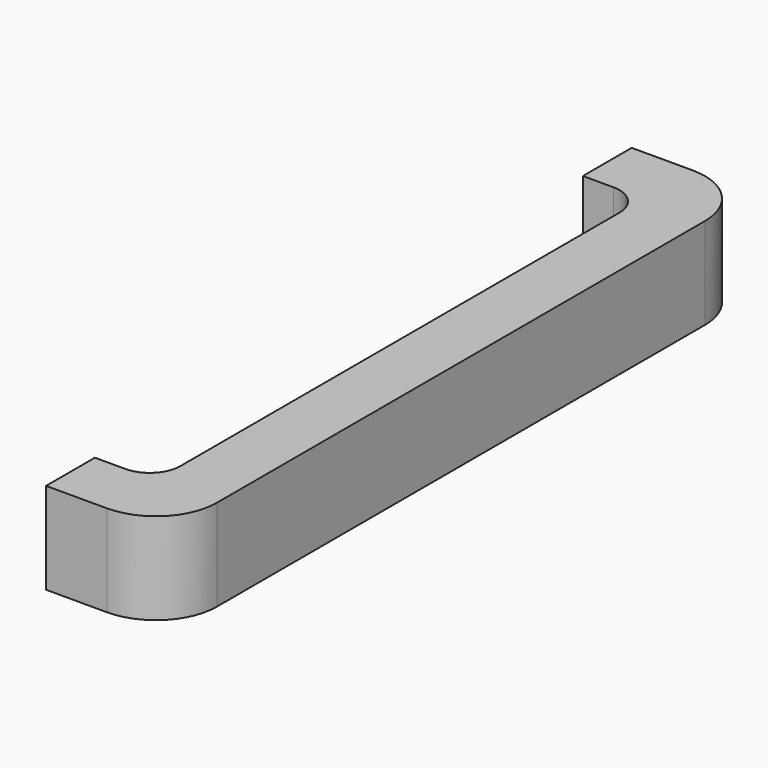
from build123d import *

# Parameters (mm, degrees)
F1_DEPTH = 1.5
F2_R     = 2
F3_R     = 1


with BuildPart() as f1:
    # F0 (on Top) → F1 (new body, symmetric)
    with BuildSketch(Plane.XY):
        Polygon((4, 12), (0, 12), (0, 10), (2, 10), (2, -10), (0, -10), (0, -12), (4, -12), align=None)
    extrude(amount=F1_DEPTH, both=True)

    # F2
    f2_edges = [f1.edges().sort_by_distance(p)[0] for p in [
        (4, -12, 0),
        (4, 12, 0),
    ]]
    fillet(f2_edges, radius=F2_R)

    # F3
    f3_edges = [f1.edges().sort_by_distance(p)[0] for p in [
        (2, 10, 0),
        (2, -10, 0),
    ]]
    fillet(f3_edges, radius=F3_R)


solid = f1.part
